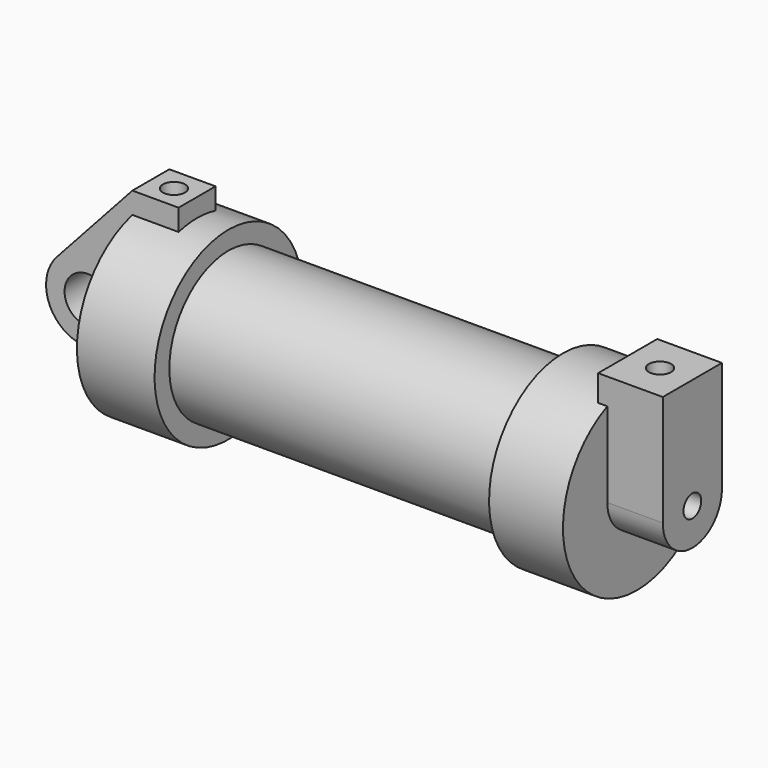
from build123d import *

# Parameters (mm, degrees)
F0_W      = 5.842
F0_H      = 12.7
F0_R      = 3.175
F2_DEPTH  = 3.175
F3_DEPTH  = 6.35
F4_R      = 1.524
F5_DEPTH  = 7.62
F6_DEPTH  = 1.27
F7_R      = 1.524
F8_DEPTH  = 17.78
F9_R      = 1.524
F10_DEPTH = 10.414


with BuildPart() as f1:
    # F0 (on Front) → F1 (revolve)
    with BuildSketch(Plane.XZ):
        Polygon((5.842, 12.7), (5.842, 0), (66.294, 0), (66.294, 12.7), (56.134, 12.7), (56.134, 10.16), (10.16, 10.16), (10.16, 12.7), align=None)
    revolve(axis=Axis((-3.3274, 0, 0), (-1, 0, 0)))

    # F0 (on Front) → F2 (join, symmetric)
    with BuildSketch(Plane.XZ):
        with BuildLine():
            Line((-0.9398, 0), (0, 0))
            Line((0, 0), (0, 12.7))
            Line((0, 12.7), (5.842, 12.7))
            Line((5.842, 12.7), (5.842, 15.24))
            Line((5.842, 15.24), (-0.508, 15.24))
            Line((-0.508, 15.24), (-10.8806298187, 3.8475430269))
            ThreePointArc((-10.8806298187, 3.8475430269), (-4.5919612295, 5.3297205562), (-0.9398, 0))
        make_face()
        with BuildLine():
            Line((5.842, 0), (0, 0))
            Line((0, 0), (-0.9398, 0))
            ThreePointArc((-0.9398, 0), (-3.1957909266, -4.5493385486), (-8.1826630726, -5.5069827884))
            Line((-8.1826630726, -5.5069827884), (5.842, -9.398))
            Line((5.842, -9.398), (5.842, 0))
        make_face()
        with Locations((2.921, 6.35)):
            Rectangle(F0_W, F0_H)
        with BuildLine():
            ThreePointArc((-8.1826630726, -5.5069827884), (-3.1957909266, -4.5493385486), (-0.9398, 0))
            ThreePointArc((-0.9398, 0), (-4.5919612295, 5.3297205562), (-10.8806298187, 3.8475430269))
            ThreePointArc((-10.8806298187, 3.8475430269), (-12.1459778134, -1.5837270034), (-8.1826630726, -5.5069827884))
        make_face()
        with Locations((-6.6548, 0)):
            Circle(F0_R, mode=Mode.SUBTRACT)
    extrude(amount=F2_DEPTH, both=True)

    # F3 (add): a face of the model
    f3_faces = [f1.faces().sort_by_distance(p)[0] for p in [
        (5.842, 3.5313700488, 1.4493610621),
    ]]
    extrude(f3_faces, amount=F3_DEPTH)

    # F4 (on face) → F5 (join)
    with BuildSketch(Plane.YZ.offset(66.294)):
        with BuildLine():
            ThreePointArc((-5.08, 0), (0, 5.08), (5.08, 0))
            Line((5.08, 0), (5.08, 11.6397422652))
            ThreePointArc((5.08, 11.6397422652), (0, 12.7), (-5.08, 11.6397422652))
            Line((-5.08, 11.6397422652), (-5.08, 0))
        make_face()
        with BuildLine():
            ThreePointArc((-5.08, 0), (0, -5.08), (5.08, 0))
            ThreePointArc((5.08, 0), (0, 5.08), (-5.08, 0))
        make_face()
        Circle(F4_R, mode=Mode.SUBTRACT)
        with BuildLine():
            ThreePointArc((-5.08, 11.6397422652), (0, 12.7), (5.08, 11.6397422652))
            Line((5.08, 11.6397422652), (5.08, 15.24))
            Line((5.08, 15.24), (-5.08, 15.24))
            Line((-5.08, 15.24), (-5.08, 11.6397422652))
        make_face()
    extrude(amount=F5_DEPTH)

    # F6 (add): a face of the model
    f6_faces = [f1.faces().sort_by_distance(p)[0] for p in [
        (66.294, 0, 13.7792682875),
    ]]
    extrude(f6_faces, amount=F6_DEPTH)

    # F7 (on face) → F8 (cut)
    with BuildSketch(Plane.XY.offset(15.24)):
        with Locations((2.667, 0)):
            Circle(F7_R)
    extrude(amount=-F8_DEPTH, mode=Mode.SUBTRACT)

    # F9 (on face) → F10 (cut)
    with BuildSketch(Plane.XY.offset(15.24)):
        with Locations((69.469, 0)):
            Circle(F9_R)
    extrude(amount=-F10_DEPTH, mode=Mode.SUBTRACT)


solid = f1.part
